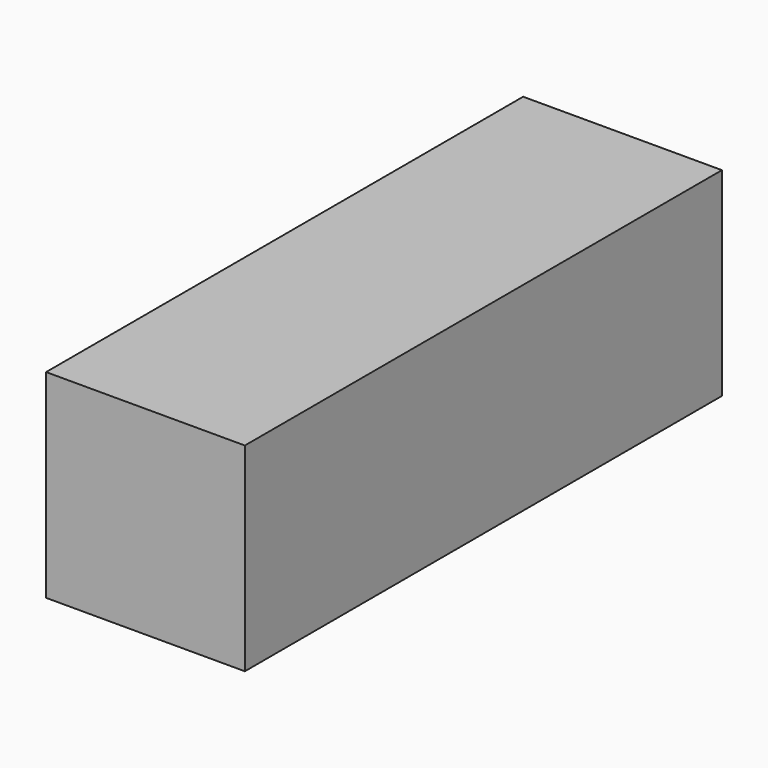
from build123d import *

# Parameters (mm, degrees)
SKETCH_W      = 10
SKETCH_H      = 30
PAD_DEPTH     = 10
SKETCH001_R   = 4
SKETCH001_R_2 = 4.05
SKETCH001_R_3 = 4.1
POCKET_DEPTH  = 8


with BuildPart() as part:
    # Sketch → Pad (new body)
    with BuildSketch(Plane.XY):
        with Locations((0, 10)):
            Rectangle(SKETCH_W, SKETCH_H)
    extrude(amount=PAD_DEPTH)

    # Sketch001 → Pocket (cut)
    with BuildSketch(Plane.XY):
        with Locations((0, 20)):
            Circle(SKETCH001_R)
        with Locations((0, 10)):
            Circle(SKETCH001_R_2)
        Circle(SKETCH001_R_3)
    extrude(amount=POCKET_DEPTH, mode=Mode.SUBTRACT)


solid = part.part
